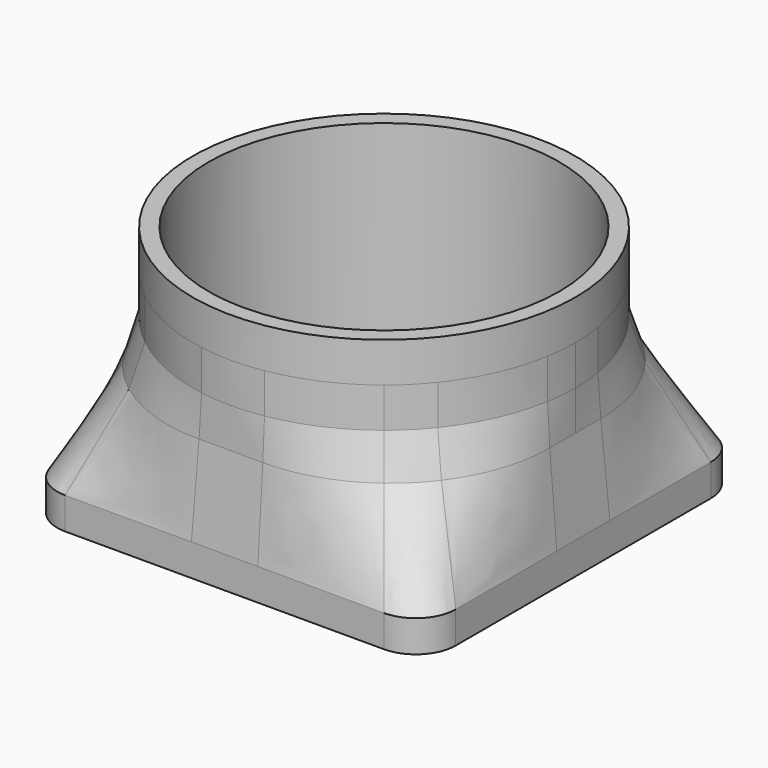
from build123d import *

# Parameters (mm, degrees)
CYLINDER_R     = 22
CYLINDER_DEPTH = 90
SKETCH002_R    = 24
SKETCH003_R    = 24
SKETCH004_R    = 24


with BuildPart() as cylinder:
    # Cylinder → Cylinder (new body)
    with BuildSketch(Plane.XY.offset(-12)):
        Circle(CYLINDER_R)
    extrude(amount=CYLINDER_DEPTH)


with BuildPart() as soporte:
    # Sketch → Loft section 0
    with BuildSketch(Plane.XY):
        with BuildLine():
            Line((-20, 25), (20, 25))
            ThreePointArc((25, 20), (23.535534, 23.535534), (20, 25))
            Line((25, 20), (25, -20))
            ThreePointArc((20, -25), (23.535534, -23.535534), (25, -20))
            Line((20, -25), (-20, -25))
            ThreePointArc((-25, -20), (-23.535534, -23.535534), (-20, -25))
            Line((-25, -20), (-25, 20))
            ThreePointArc((-20, 25), (-23.535534, 23.535534), (-25, 20))
        make_face()
    # Sketch005 → Loft section 1
    with BuildSketch(Plane.XY.offset(4)):
        with BuildLine():
            Line((-20, 25), (20, 25))
            ThreePointArc((25, 20), (23.535534, 23.535534), (20, 25))
            Line((25, 20), (25, -20))
            ThreePointArc((20, -25), (23.535534, -23.535534), (25, -20))
            Line((20, -25), (-20, -25))
            ThreePointArc((-25, -20), (-23.535534, -23.535534), (-20, -25))
            Line((-25, -20), (-25, 20))
            ThreePointArc((-20, 25), (-23.535534, 23.535534), (-25, 20))
        make_face()
    # Sketch006 → Loft section 2
    with BuildSketch(Plane.XY.offset(15)):
        with BuildLine():
            Line((-4, 24), (4, 24))
            ThreePointArc((24, 4), (18.142136, 18.142136), (4, 24))
            Line((24, 4), (24, -4))
            ThreePointArc((4, -24), (18.142136, -18.142136), (24, -4))
            Line((4, -24), (-4, -24))
            ThreePointArc((-24, -4), (-18.142136, -18.142136), (-4, -24))
            Line((-24, -4), (-24, 4))
            ThreePointArc((-4, 24), (-18.142136, 18.142136), (-24, 4))
        make_face()
    # Sketch002 → Loft section 3
    with BuildSketch(Plane.XY.offset(20)):
        Circle(SKETCH002_R)
    # Sketch003 → Loft section 4
    with BuildSketch(Plane.XY.offset(25)):
        with Locations((-0.000114, 0.003714)):
            Circle(SKETCH003_R)
    # Sketch004 → Loft section 5
    with BuildSketch(Plane.XY.offset(30)):
        with Locations((-0.000114, 0.003714)):
            Circle(SKETCH004_R)
    loft(ruled=True)

    # Cut: cut Cylinder
    add(cylinder.part, mode=Mode.SUBTRACT)


solid = soporte.part
